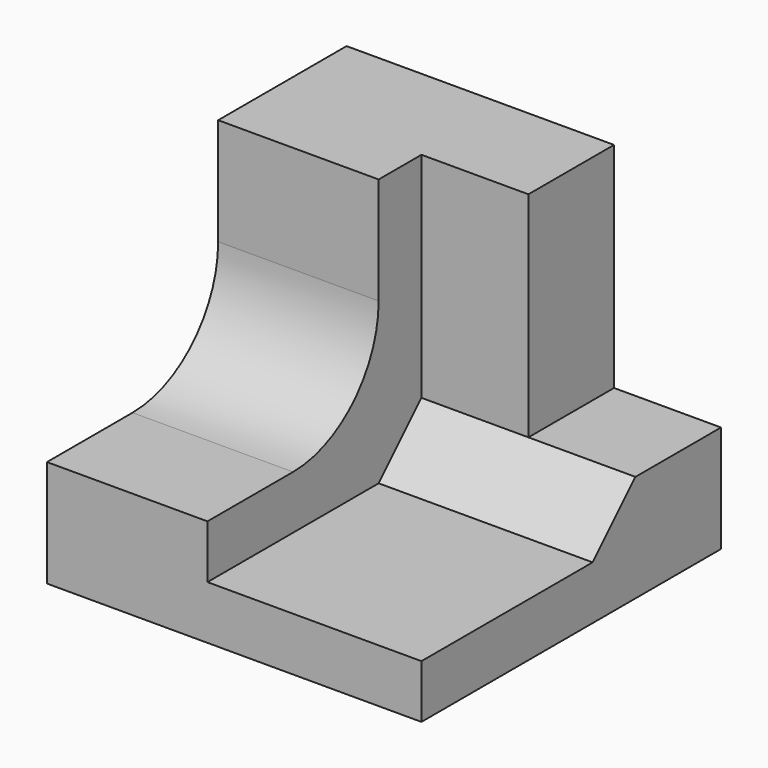
from build123d import *

# Parameters (mm, degrees)
F0_W     = 70
F0_H     = 70
F1_DEPTH = 60
F2_W     = 40
F2_H     = 50
F3_DEPTH = 50
F4_W     = 20
F4_H     = 40
F5_DEPTH = 20
F6_W     = 40
F6_H     = 40
F7_DEPTH = 30
F8_R     = 20
F9_SIZE  = 10


with BuildPart() as f1:
    # F0 (on Top) → F1 (new body)
    with BuildSketch(Plane.XY):
        with Locations((35, 35)):
            Rectangle(F0_W, F0_H)
    extrude(amount=F1_DEPTH)

    # F2 (on face) → F3 (cut)
    with BuildSketch(Plane.XY.offset(60)):
        with Locations((50, 25)):
            Rectangle(F2_W, F2_H)
    extrude(amount=-F3_DEPTH, mode=Mode.SUBTRACT)

    # F4 (on face) → F5 (cut)
    with BuildSketch(Plane.XZ.offset(-50)):
        with Locations((60, 40)):
            Rectangle(F4_W, F4_H)
    extrude(amount=-F5_DEPTH, mode=Mode.SUBTRACT)

    # F6 (on face) → F7 (cut)
    with BuildSketch(Plane.YZ.offset(30)):
        with Locations((20, 40)):
            Rectangle(F6_W, F6_H)
    extrude(amount=-F7_DEPTH, mode=Mode.SUBTRACT)

    # F8
    f8_edges = [f1.edges().sort_by_distance(p)[0] for p in [
        (15, 40, 20),
    ]]
    fillet(f8_edges, radius=F8_R)

    # F9
    f9_edges = [f1.edges().sort_by_distance(p)[0] for p in [
        (50, 50, 10),
    ]]
    chamfer(f9_edges, length=F9_SIZE)


solid = f1.part
